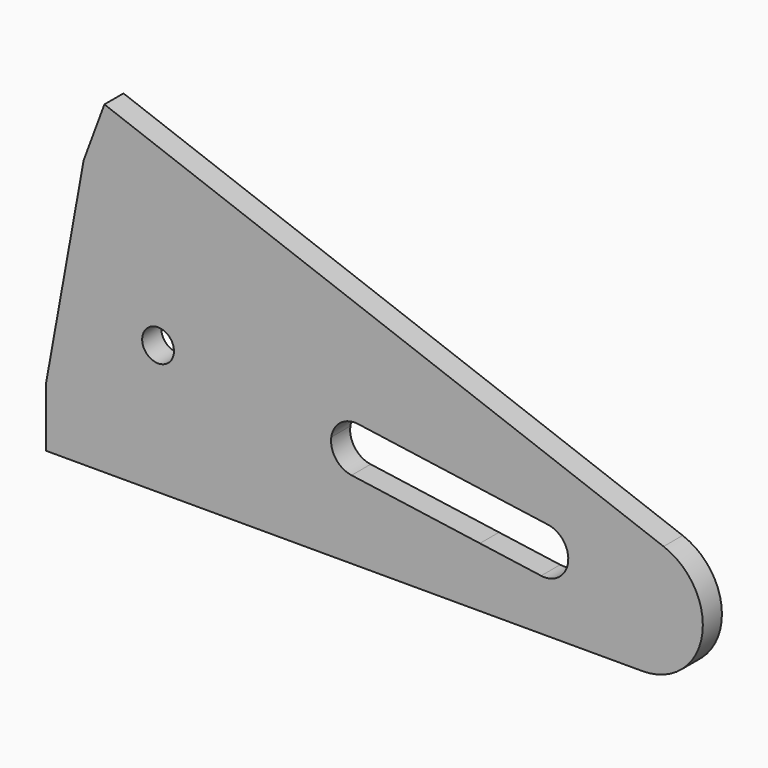
from build123d import *

# Parameters (mm, degrees)
F1_DEPTH = 6


with BuildPart() as f1:
    # F0 (on Front) → F1 (new body)
    with BuildSketch(Plane.XZ):
        with BuildLine():
            ThreePointArc((-19.854254, 7.362044), (-18.657158, 3.658735), (-19.984258, 0))
            ThreePointArc((-19.984258, 0), (-22.453101, -1.816213), (-25.496826, -2.176153))
            Line((-25.496826, -2.176153), (-40.876431, 0))
            Line((-40.876431, 0), (-150, 0))
            Line((-150, 0), (-150, -15))
            Line((-150, -15), (0, -15))
            ThreePointArc((0, -15), (14.943127, -2.562509), (5.312292, 14.3264))
            Line((5.312292, 14.3264), (-135.330133, 66.477224))
            Line((-135.330133, 66.477224), (-140.545215, 52.412982))
            Line((-140.545215, 52.412982), (-26.32907, 10.061137))
            Line((-26.32907, 10.061137), (-23.81562, 9.705494))
            ThreePointArc((-23.81562, 9.705494), (-21.844081, 9.064846), (-20.208234, 7.791505))
            ThreePointArc((-20.208234, 7.791505), (-20.026262, 7.580881), (-19.854254, 7.362044))
        make_face()
        with BuildLine():
            ThreePointArc((-117.832204, 17.514687), (-125.822329, 17.795581), (-117.871654, 16.954285))
            ThreePointArc((-117.871654, 16.954285), (-117.842078, 17.233792), (-117.832204, 17.514687))
        make_face()
        with BuildLine():
            Line((-150, 0), (-40.876431, 0))
            Line((-40.876431, 0), (-73.165942, 4.568838))
            ThreePointArc((-73.165942, 4.568838), (-77.120532, 6.903261), (-78.266163, 11.350265))
            ThreePointArc((-78.266163, 11.350265), (-75.93174, 15.304854), (-71.484736, 16.450485))
            Line((-71.484736, 16.450485), (-27.629518, 10.245146))
            Line((-27.629518, 10.245146), (-140.595636, 52.133475))
            Line((-140.595636, 52.133475), (-150, 0))
        make_face()
        with BuildLine():
            ThreePointArc((-117.832204, 17.514687), (-117.842078, 17.233792), (-117.871654, 16.954285))
            ThreePointArc((-117.871654, 16.954285), (-125.822329, 17.795581), (-117.832204, 17.514687))
        make_face(mode=Mode.SUBTRACT)
        Polygon((-140.545215, 52.412982), (-140.595636, 52.133475), (-27.629518, 10.245146), (-26.32907, 10.061137), align=None)
    extrude(amount=F1_DEPTH)


solid = f1.part
